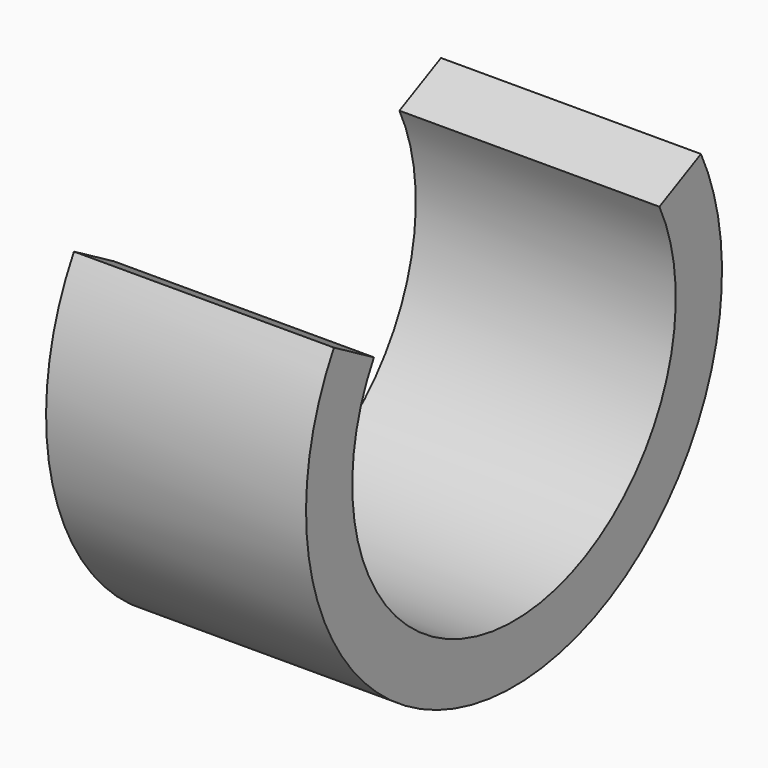
from build123d import *

# Parameters (mm, degrees)
CYLINDER103_R          = 7
CYLINDER103_DEPTH      = 9
CYLINDER104_W          = 9
CYLINDER104_H          = 9
CYLINDER104_ANGLE      = 236
CUT006_ROLL_ANGLE      = -90
CUT006_PITCH_ANGLE     = -30
CUT006_PLACEMENT_ANGLE = -90


with BuildPart() as syringe_hole:
    # Cylinder103 → Cylinder103 (new body)
    with BuildSketch(Plane.XY):
        Circle(CYLINDER103_R)
    extrude(amount=CYLINDER103_DEPTH)


with BuildPart() as syringe_hole_cut:
    # Cylinder104 → Cylinder104 (revolve)
    with BuildSketch(Plane.XZ):
        with Locations((4.5, 4.5)):
            Rectangle(CYLINDER104_W, CYLINDER104_H)
    revolve(axis=Axis((0, 0, 0), (0, 0, 1)), revolution_arc=CYLINDER104_ANGLE)

    # Cut006: cut syringe hole
    add(syringe_hole.part, mode=Mode.SUBTRACT)


with BuildPart() as syringe_hole_cut_1:
    # Cut006 roll: moved
    add(syringe_hole_cut.part.rotate(Axis((0, 0, 0), (1, 0, 0)), CUT006_ROLL_ANGLE))


with BuildPart() as syringe_hole_cut_2:
    # Cut006 pitch: moved
    add(syringe_hole_cut_1.part.rotate(Axis((0, 0, 0), (0, 1, 0)), CUT006_PITCH_ANGLE))


with BuildPart() as syringe_hole_cut_3:
    # Cut006 placement: moved
    add(syringe_hole_cut_2.part.moved(Location((111, 26, 21.5))).rotate(Axis((111, 26, 21.5), (0, 0, 1)), CUT006_PLACEMENT_ANGLE))


solid = syringe_hole_cut_3.part
